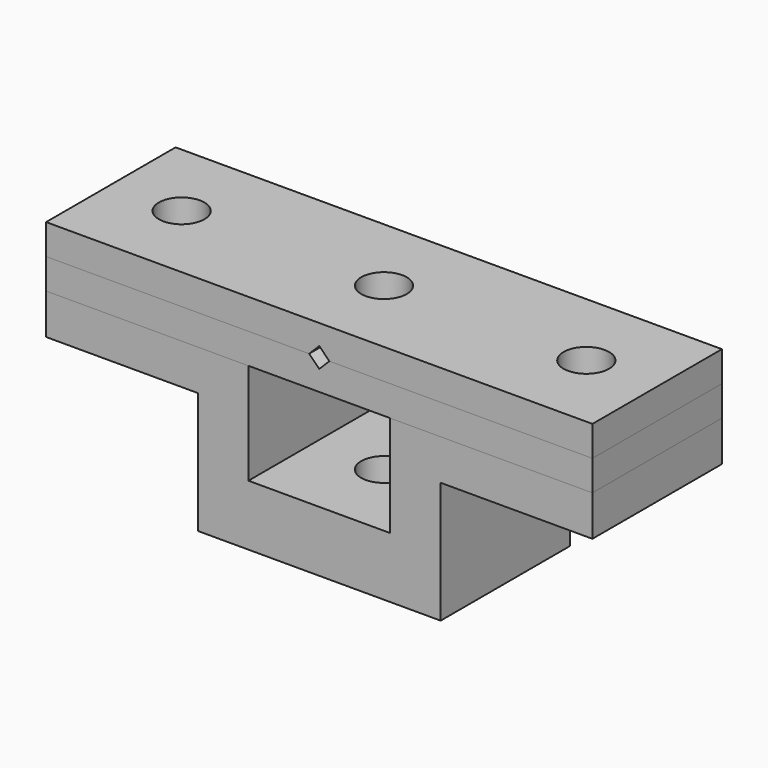
from build123d import *

# Parameters (mm, degrees)
F1_DEPTH = 8
F2_DEPTH = 8
F0_W     = 54
F0_H     = 3
F3_DEPTH = 8
F4_R     = 2.25
F5_DEPTH = 30
F7_DEPTH = 16
F8_W     = 15
F8_H     = 12
F9_DEPTH = 25


with BuildPart() as f1:
    # F0 (on Front) → F1 (new body, symmetric)
    with BuildSketch(Plane.XZ):
        Polygon((-7, -10), (-7, 0), (-27, 0), (-27, -16), (27, -16), (27, 0), (7, 0), (7, -10), align=None)
    extrude(amount=F1_DEPTH, both=True)


with BuildPart() as f2:
    # F0 (on Front) → F2 (new body, symmetric)
    with BuildSketch(Plane.XZ):
        Polygon((-27, 0), (-7, 0), (7, 0), (27, 0), (27, 3), (-27, 3), align=None)
    extrude(amount=F2_DEPTH, both=True)


with BuildPart() as f3:
    # F0 (on Front) → F3 (new body, symmetric)
    with BuildSketch(Plane.XZ):
        with Locations((0, 4.5)):
            Rectangle(F0_W, F0_H)
    extrude(amount=F3_DEPTH, both=True)


with BuildPart() as f5_tool:
    # F4 (on face) → F5 (new body)
    with BuildSketch(Plane.XY.offset(6)):
        with Locations((-20, 0)):
            Circle(F4_R)
        with Locations((20, 0)):
            Circle(F4_R)
        Circle(F4_R)
    extrude(amount=-F5_DEPTH)


with BuildPart() as f1_1:
    add(f1.part)

    # F5: cut by f5_tool
    add(f5_tool.part, mode=Mode.SUBTRACT)

    # F8 (on face) → F9 (cut)
    with BuildSketch(Plane(origin=(0, 8, 0), x_dir=(-1, 0, 0), z_dir=(0, 1, 0))):
        with Locations((19.5, -10)):
            Rectangle(F8_W, F8_H)
        with Locations((-19.5, -10)):
            Rectangle(F8_W, F8_H)
    extrude(amount=-F9_DEPTH, mode=Mode.SUBTRACT)


with BuildPart() as f2_1:
    add(f2.part)

    # F5: cut by f5_tool
    add(f5_tool.part, mode=Mode.SUBTRACT)


with BuildPart() as f3_1:
    add(f3.part)

    # F5: cut by f5_tool
    add(f5_tool.part, mode=Mode.SUBTRACT)


with BuildPart() as f7_tool:
    # F6 (on face) → F7 (new body)
    with BuildSketch(Plane.XZ.offset(8)):
        Polygon((0, 4), (-1, 3), (1, 3), align=None)
        Polygon((1, 3), (-1, 3), (0, 2), align=None)
    extrude(amount=-F7_DEPTH)


with BuildPart() as f2_2:
    add(f2_1.part)

    # F7: cut by f7_tool
    add(f7_tool.part, mode=Mode.SUBTRACT)


with BuildPart() as f3_2:
    add(f3_1.part)

    # F7: cut by f7_tool
    add(f7_tool.part, mode=Mode.SUBTRACT)


solid = Compound([f1_1.part, f2_2.part, f3_2.part])
